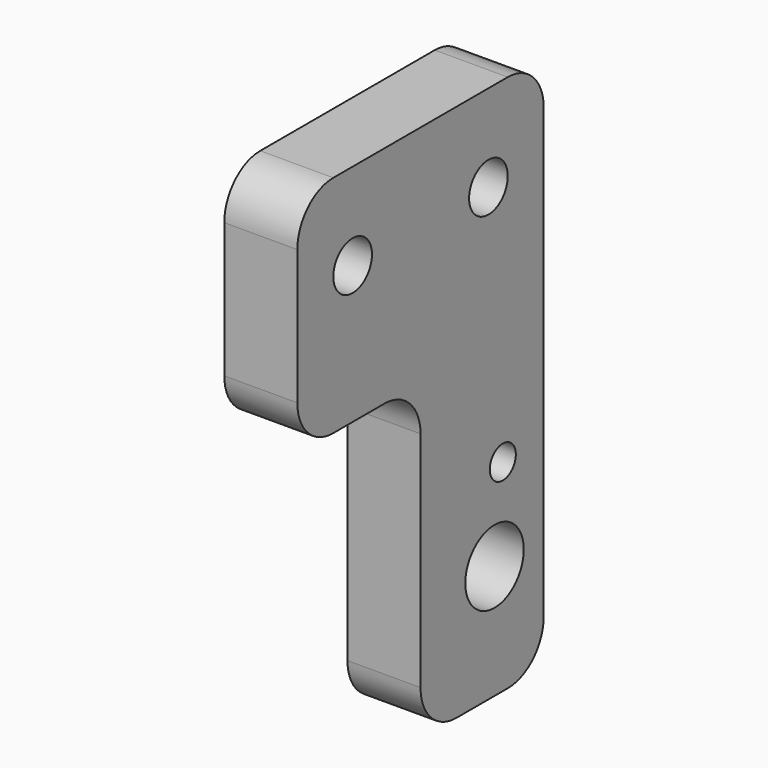
from build123d import *

# Parameters (mm, degrees)
F0_R     = 4.1275
F0_R_2   = 1.8415
F0_R_3   = 2.7305
F1_DEPTH = 8.255
F2_R     = 5.08
F3_R     = 5.08


with BuildPart() as f1:
    # F0 (on Right) → F1 (new body)
    with BuildSketch(Plane.YZ):
        Polygon((-17.399, 0), (0, 0), (0, 60.8), (-34.798, 60.8), (-34.798, 35.4), (-17.399, 35.4), align=None)
        with Locations((-6.9469, 12.8905)):
            Circle(F0_R, mode=Mode.SUBTRACT)
        with Locations((-5.7785, 22.7965)):
            Circle(F0_R_2, mode=Mode.SUBTRACT)
        with Locations((-26.9875, 50.9575)):
            Circle(F0_R_3, mode=Mode.SUBTRACT)
        with Locations((-7.8105, 50.9575)):
            Circle(F0_R_3, mode=Mode.SUBTRACT)
    extrude(amount=F1_DEPTH)

    # F2
    f2_edges = [f1.edges().sort_by_distance(p)[0] for p in [
        (4.1275, 0, 60.8),
    ]]
    fillet(f2_edges, radius=F2_R)

    # F3
    f3_edges = [f1.edges().sort_by_distance(p)[0] for p in [
        (4.1275, 0, 0),
        (4.1275, -17.399, 0),
        (4.1275, -17.399, 35.4),
        (4.1275, -34.798, 35.4),
        (4.1275, -34.798, 60.8),
    ]]
    fillet(f3_edges, radius=F3_R)


solid = f1.part
